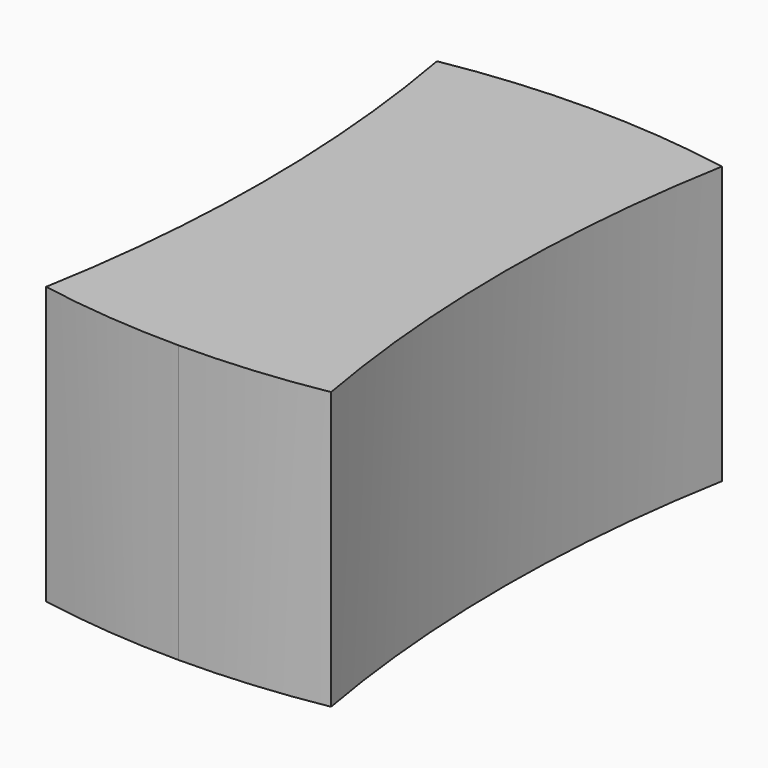
from build123d import *

# Parameters (mm, degrees)
F1_DEPTH = 12


with BuildPart() as f1:
    # F0 (on Top) → F1 (new body)
    with BuildSketch(Plane.XY):
        with BuildLine():
            Line((0, 0), (0, 22.259908))
            ThreePointArc((0, 22.259908), (-3.0984, 22.122494), (-6.17247, 21.711332))
            ThreePointArc((-6.17247, 21.711332), (-5.232054, 11.129954), (-6.17247, 0.548576))
            ThreePointArc((-6.17247, 0.548576), (-3.0984, 0.137414), (0, 0))
        make_face()
    extrude(amount=F1_DEPTH)

    # F2: F1 across plane


with BuildPart() as f1_1:
    add(f1.part)
    add(f1.part.mirror(Plane.YZ))


solid = f1_1.part
